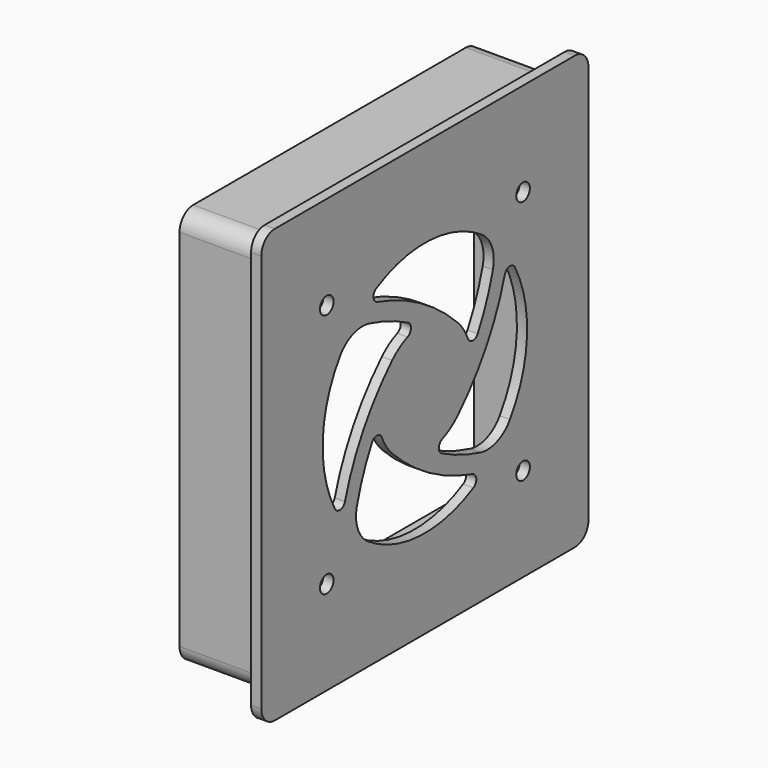
from build123d import *

# Parameters (mm, degrees)
F0_W     = 120
F0_H     = 127
F1_DEPTH = 3
F2_R     = 5
F4_DEPTH = 25
F5_R     = 2.5
F6_DEPTH = 3.001
F8_DEPTH = 3.001
F9_DEPTH = 3.001
F10_R    = 10
F11_R    = 2


with BuildPart() as f1:
    # F0 (on Right) → F1 (new body)
    with BuildSketch(Plane.YZ):
        Rectangle(F0_W, F0_H)
    extrude(amount=F1_DEPTH)

    # F2
    f2_edges = [f1.edges().sort_by_distance(p)[0] for p in [
        (1.5, -60, 63.5),
        (1.5, 60, 63.5),
        (1.5, 60, -63.5),
        (1.5, -60, -63.5),
    ]]
    fillet(f2_edges, radius=F2_R)

    # F3 (on face) → F4 (join)
    with BuildSketch(Plane(origin=(0, 0, 0), x_dir=(0, -1, 0), z_dir=(-1, 0, 0))):
        with BuildLine():
            Line((-50, -58.5), (50, -58.5))
            ThreePointArc((50, -58.5), (53.535534, -57.035534), (55, -53.5))
            Line((55, -53.5), (55, 53.5))
            ThreePointArc((55, 53.5), (53.535534, 57.035534), (50, 58.5))
            Line((50, 58.5), (-50, 58.5))
            ThreePointArc((-50, 58.5), (-53.535534, 57.035534), (-55, 53.5))
            Line((-55, 53.5), (-55, -53.5))
            ThreePointArc((-55, -53.5), (-53.535534, -57.035534), (-50, -58.5))
        make_face()
        with BuildLine():
            Line((53, 51.5), (53, -51.5))
            ThreePointArc((53, -51.5), (51.535534, -55.035534), (48, -56.5))
            Line((48, -56.5), (-48, -56.5))
            ThreePointArc((-48, -56.5), (-51.535534, -55.035534), (-53, -51.5))
            Line((-53, -51.5), (-53, 51.5))
            ThreePointArc((-53, 51.5), (-51.535534, 55.035534), (-48, 56.5))
            Line((-48, 56.5), (48, 56.5))
            ThreePointArc((48, 56.5), (51.535534, 55.035534), (53, 51.5))
        make_face(mode=Mode.SUBTRACT)
    extrude(amount=F4_DEPTH)

    # F5 (on face) → F6 (cut, through all)
    with BuildSketch(Plane(origin=(0, 0, 0), x_dir=(0, -1, 0), z_dir=(-1, 0, 0))):
        with Locations((36, 36)):
            Circle(F5_R)
        with Locations((36, -36)):
            Circle(F5_R)
        with Locations((-36, 36)):
            Circle(F5_R)
        with Locations((-36, -36)):
            Circle(F5_R)
        with Locations((-108, 36)):
            Circle(F5_R)
        with Locations((-108, -36)):
            Circle(F5_R)
    extrude(amount=-F6_DEPTH, mode=Mode.SUBTRACT)

    # F7 (on face) → F8 (cut, through all)
    with BuildSketch(Plane(origin=(0, 0, 0), x_dir=(0, -1, 0), z_dir=(-1, 0, 0))):
        with BuildLine():
            ThreePointArc((-21.909591, -30.43386), (2.825996, -37.393365), (26.234678, -26.795366))
            ThreePointArc((26.234678, -26.795366), (22.889229, -13.865431), (16.889738, -1.933065))
            ThreePointArc((16.889738, -1.933065), (15.309987, -7.389472), (12.020815, -12.020815))
            ThreePointArc((12.020815, -12.020815), (-3.608472, -23.68908), (-21.909591, -30.43386))
        make_face()
    extrude(amount=-F8_DEPTH, mode=Mode.SUBTRACT)

    # F7 (on face) → F9 (cut, through all)
    with BuildSketch(Plane(origin=(0, 0, 0), x_dir=(0, -1, 0), z_dir=(-1, 0, 0))):
        with BuildLine():
            ThreePointArc((1.933063, 16.889738), (7.389471, 15.309987), (12.020815, 12.020815))
            ThreePointArc((12.020815, 12.020815), (23.68908, -3.608472), (30.43386, -21.909591))
            ThreePointArc((30.43386, -21.909591), (37.393365, 2.825997), (26.795365, 26.234679))
            ThreePointArc((26.795365, 26.234679), (13.86543, 22.88923), (1.933063, 16.889738))
        make_face()
        with BuildLine():
            ThreePointArc((-21.909591, -30.43386), (2.825996, -37.393365), (26.234678, -26.795366))
            ThreePointArc((26.234678, -26.795366), (22.889229, -13.865431), (16.889738, -1.933065))
            ThreePointArc((16.889738, -1.933065), (15.309987, -7.389472), (12.020815, -12.020815))
            ThreePointArc((12.020815, -12.020815), (-3.608472, -23.68908), (-21.909591, -30.43386))
        make_face()
        with BuildLine():
            ThreePointArc((-30.43386, 21.909591), (-37.393365, -2.825996), (-26.795366, -26.234678))
            ThreePointArc((-26.795366, -26.234678), (-13.865431, -22.889229), (-1.933065, -16.889738))
            ThreePointArc((-1.933065, -16.889738), (-7.389472, -15.309987), (-12.020815, -12.020815))
            ThreePointArc((-12.020815, -12.020815), (-23.68908, 3.608472), (-30.43386, 21.909591))
        make_face()
        with BuildLine():
            ThreePointArc((21.909591, 30.43386), (-2.825997, 37.393365), (-26.234679, 26.795365))
            ThreePointArc((-26.234679, 26.795365), (-22.88923, 13.86543), (-16.889738, 1.933063))
            ThreePointArc((-16.889738, 1.933063), (-15.309987, 7.389471), (-12.020815, 12.020815))
            ThreePointArc((-12.020815, 12.020815), (3.608472, 23.68908), (21.909591, 30.43386))
        make_face()
    extrude(amount=-F9_DEPTH, mode=Mode.SUBTRACT)

    # F10
    f10_edges = [f1.edges().sort_by_distance(p)[0] for p in [
        (1.5, -26.234678, -26.795366),
        (1.5, -26.795365, 26.234679),
        (1.5, 26.795366, -26.234678),
        (1.5, 26.234679, 26.795365),
    ]]
    fillet(f10_edges, radius=F10_R)

    # F11
    f11_edges = [f1.edges().sort_by_distance(p)[0] for p in [
        (1.5, -21.909591, 30.43386),
        (1.5, -1.933063, 16.889738),
        (1.5, -30.43386, -21.909591),
        (1.5, -16.889738, -1.933065),
        (1.5, 21.909591, -30.43386),
        (1.5, 1.933065, -16.889738),
        (1.5, 30.43386, 21.909591),
        (1.5, 16.889738, 1.933063),
    ]]
    fillet(f11_edges, radius=F11_R)


solid = f1.part
